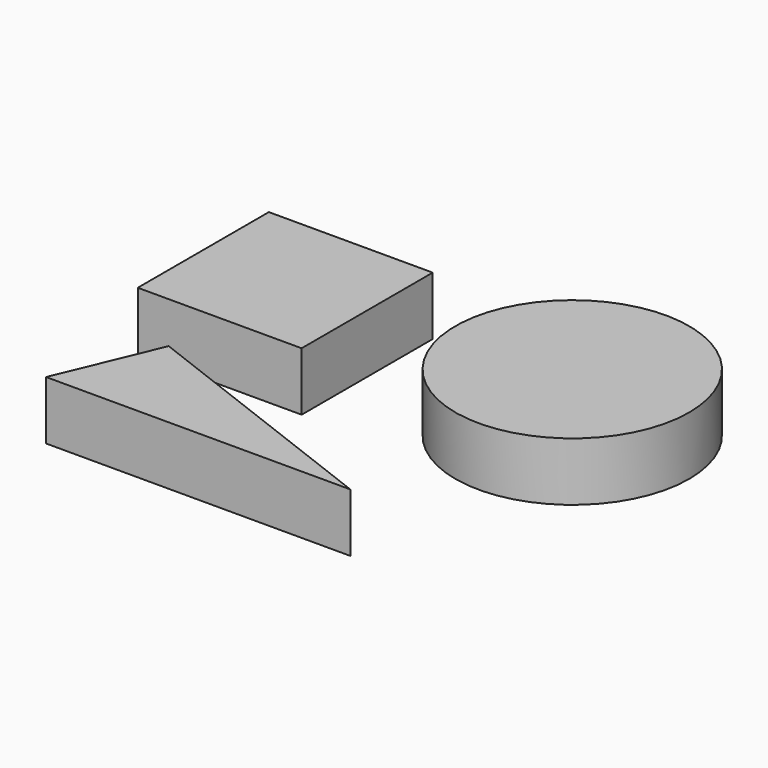
from build123d import *

# Parameters (mm, degrees)
F0_W     = 70
F0_H     = 70
F0_R     = 34.7176544055
F1_DEPTH = 25
F0_R_2   = 49.9549817162


with BuildPart() as f1:
    # F0 (on Top) → F1 (new body)
    with BuildSketch(Plane.XY):
        with Locations((-37.8889573056, 27.9310488008)):
            Rectangle(F0_W, F0_H)
        with Locations((-37.8889573056, 27.9310488008)):
            Circle(F0_R, mode=Mode.SUBTRACT)
        with Locations((-37.8889573056, 27.9310488008)):
            Circle(F0_R)
    extrude(amount=F1_DEPTH)


with BuildPart() as f1b:
    # F0 (on Top) → F1, piece 2 (new body)
    with BuildSketch(Plane.XY):
        with Locations((77.1059280634, 37.4826608133)):
            Circle(F0_R_2)
        with Locations((77.1059280634, 37.4826608133)):
            Rectangle(F0_W, F0_H, mode=Mode.SUBTRACT)
        with Locations((77.1059280634, 37.4826608133)):
            Rectangle(F0_W, F0_H)
    extrude(amount=F1_DEPTH)


with BuildPart() as f1c:
    # F0 (on Top) → F1, piece 3 (new body)
    with BuildSketch(Plane.XY):
        with BuildLine():
            Line((-44.8413871581, -48.7397375997), (-46.0921244025, -51.7328290274))
            ThreePointArc((-46.0921244025, -51.7328290274), (-31.2286122772, -75.7585200136), (-9.7718253953, -57.3801600005))
            ThreePointArc((-9.7718253953, -57.3801600005), (-23.9216138018, -39.3210136925), (-44.8413871581, -48.7397375997))
        make_face()
        with BuildLine():
            Line((-46.0921244025, -51.7328290274), (-56.4683983001, -76.5638929389))
            Line((-56.4683983001, -76.5638929389), (73.5316016999, -76.5638929389))
            Line((73.5316016999, -76.5638929389), (-38.4980494797, -33.5597389934))
            Line((-38.4980494797, -33.5597389934), (-44.8413871581, -48.7397375997))
            ThreePointArc((-44.8413871581, -48.7397375997), (-23.9216138018, -39.3210136925), (-9.7718253953, -57.3801600005))
            ThreePointArc((-9.7718253953, -57.3801600005), (-31.2286122772, -75.7585200136), (-46.0921244025, -51.7328290274))
        make_face()
    extrude(amount=F1_DEPTH)


solid = Compound([f1.part, f1b.part, f1c.part])
